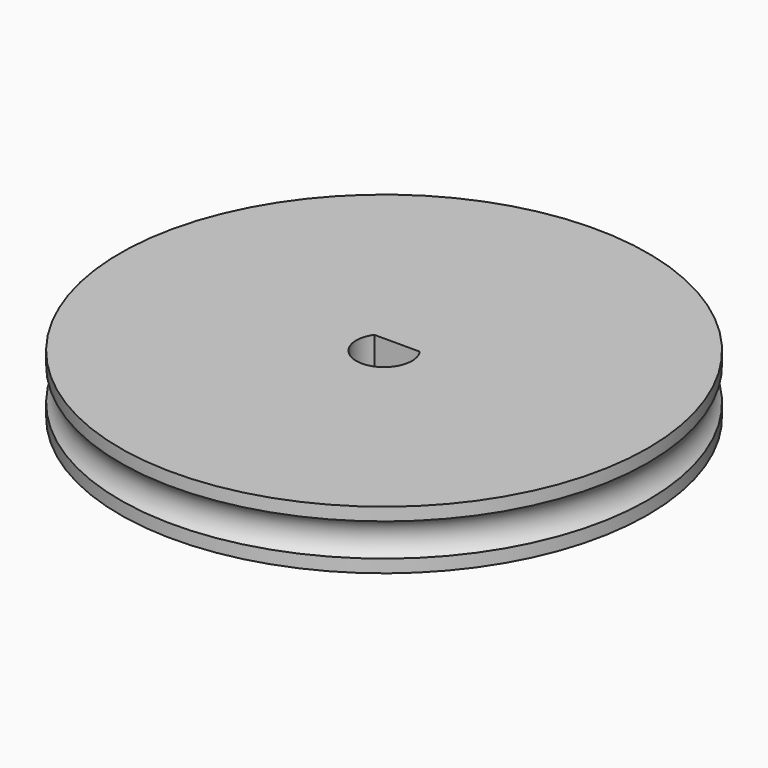
from build123d import *

# Parameters (mm, degrees)
TORUS002_R        = 1.5
BOX084016_W       = 10
BOX084016_H       = 10
BOX084016_DEPTH   = 12
CYLINDER028_R     = 1.9
CYLINDER028_DEPTH = 10
CYLINDER012_R     = 18
CYLINDER012_DEPTH = 4


with BuildPart() as torus002:
    # Torus002 → Torus002 (revolve)
    with BuildSketch(Plane(origin=(0, 0, 2), x_dir=(1, 0, 0), z_dir=(0, -1, 0))):
        with Locations((19, 0)):
            Circle(TORUS002_R)
    revolve(axis=Axis((0, 0, 2), (0, 0, 1)))


with BuildPart() as cube067:
    # Box084016 → Box084016 (new body)
    with BuildSketch(Plane(origin=(-5, 1.1, -1.5), x_dir=(1, 0, 0), z_dir=(0, 0, 1))):
        with Locations((5, 5)):
            Rectangle(BOX084016_W, BOX084016_H)
    extrude(amount=BOX084016_DEPTH)


with BuildPart() as cut057:
    # Cylinder028 → Cylinder028 (new body)
    with BuildSketch(Plane.XY.offset(-1)):
        Circle(CYLINDER028_R)
    extrude(amount=CYLINDER028_DEPTH)

    # Cut057: cut Cube067
    add(cube067.part, mode=Mode.SUBTRACT)


with BuildPart() as wheel:
    # Cylinder012 → Cylinder012 (new body)
    with BuildSketch(Plane.XY):
        Circle(CYLINDER012_R)
    extrude(amount=CYLINDER012_DEPTH)

    # Cut062: cut Cut057
    add(cut057.part, mode=Mode.SUBTRACT)

    # Cut063: cut Torus002
    add(torus002.part, mode=Mode.SUBTRACT)


with BuildPart() as wheel_1:
    # Cut063 placement: moved
    add(wheel.part.moved(Location((0, -20, 48))))


solid = wheel_1.part
